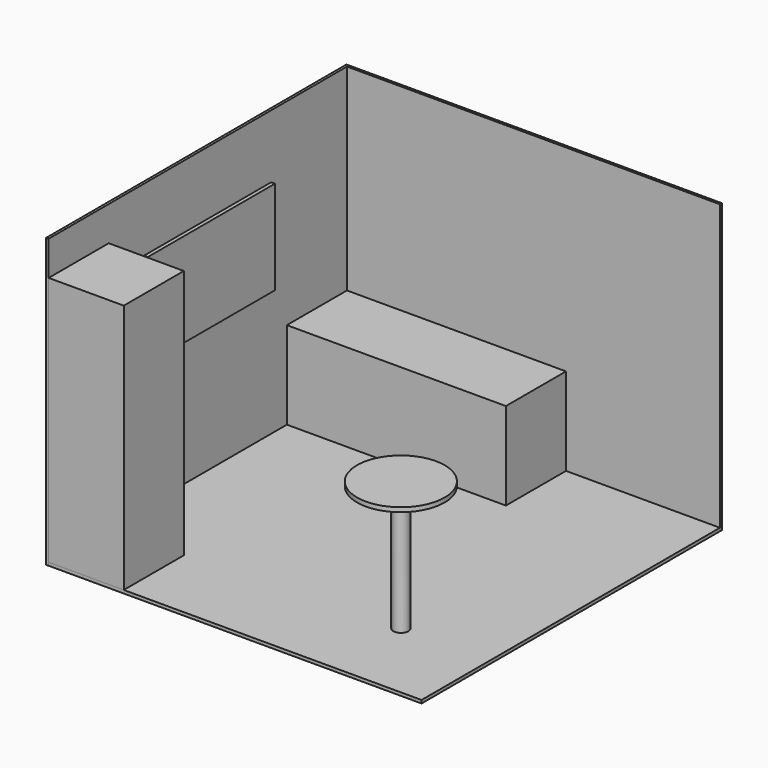
from build123d import *

# Parameters (mm, degrees)
F0_W      = 3000
F0_H      = 3000
F2_DEPTH  = 25
F3_DEPTH  = 2300
F4_W      = 1750
F4_H      = 600
F5_DEPTH  = 700
F6_W      = 600
F6_H      = 600
F7_DEPTH  = 2000
F9_R      = 60
F10_DEPTH = 1000
F11_R     = 350
F12_DEPTH = 35
F13_W     = 1270
F13_H     = 750
F14_DEPTH = 30


with BuildPart() as f2:
    # F0 (on Top) → F2 (new body)
    with BuildSketch(Plane.XY):
        with Locations((-1500, 1500)):
            Rectangle(F0_W, F0_H)
    extrude(amount=F2_DEPTH)


with BuildPart() as f3:
    # F1 (on Top) → F3 (new body)
    with BuildSketch(Plane.XY):
        Polygon((0, 2980), (0, 3000), (-3000, 3000), (-3000, 0), (-2980, 0), (-2980, 2980), align=None)
    extrude(amount=F3_DEPTH)


with BuildPart() as f5:
    # F4 (on face) → F5 (new body)
    with BuildSketch(Plane.XY.offset(25)):
        with Locations((-2105, 2680)):
            Rectangle(F4_W, F4_H)
    extrude(amount=F5_DEPTH)


with BuildPart() as f7:
    # F6 (on face) → F7 (new body)
    with BuildSketch(Plane.XY.offset(25)):
        with Locations((-2679.3028831482, 300)):
            Rectangle(F6_W, F6_H)
    extrude(amount=F7_DEPTH)


with BuildPart() as f10:
    # F9 (on face) → F10 (new body)
    with BuildSketch(Plane.XY.offset(25)):
        with Locations((-704.3439149857, 673.7154126167)):
            Circle(F9_R)
    extrude(amount=F10_DEPTH)


with BuildPart() as f12:
    # F11 (on face) → F12 (new body)
    with BuildSketch(Plane.XY.offset(1025)):
        with Locations((-704.3439149857, 673.7154126167)):
            Circle(F11_R)
    extrude(amount=F12_DEPTH)


with BuildPart() as f14:
    # F13 (on face) → F14 (new body)
    with BuildSketch(Plane.YZ.offset(-2980)):
        with Locations((1587.831735611, 1418.7914731905)):
            Rectangle(F13_W, F13_H)
    extrude(amount=F14_DEPTH)


solid = Compound([f2.part, f3.part, f5.part, f7.part, f10.part, f12.part, f14.part])
